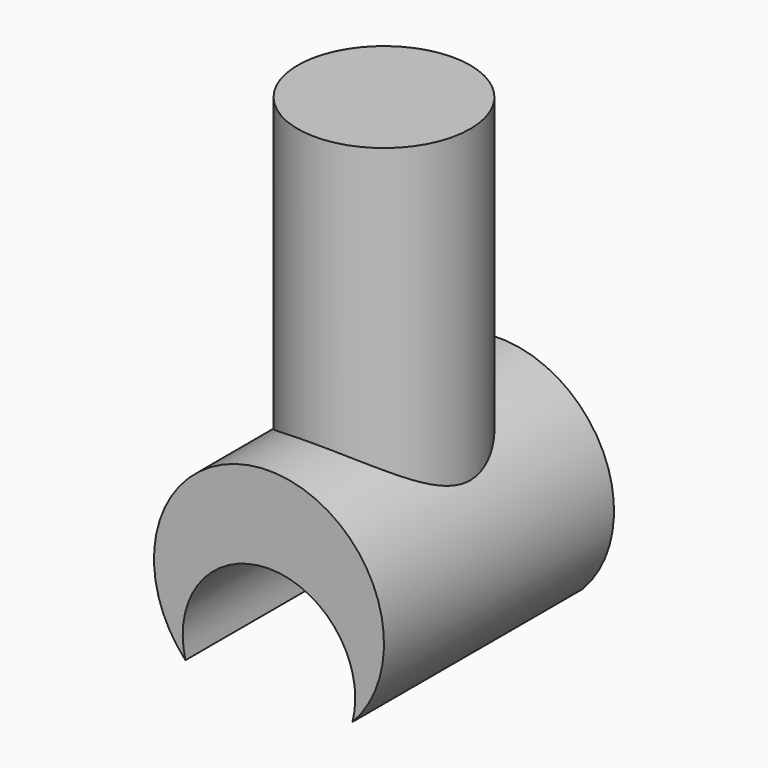
from build123d import *

# Parameters (mm, degrees)
F1_DEPTH = 2.5
F2_R     = 1.5
F3_DEPTH = 5.5


with BuildPart() as f1:
    # F0 (on Front) → F1 (new body, symmetric)
    with BuildSketch(Plane.XZ):
        with BuildLine():
            ThreePointArc((-1.452369, -2.576711), (0, -0.701711), (1.452369, -2.576711))
            ThreePointArc((1.452369, -2.576711), (0, 0.798289), (-1.452369, -2.576711))
        make_face()
    extrude(amount=F1_DEPTH, both=True)

    # F2 (on Top) → F3 (join)
    with BuildSketch(Plane.XY):
        Circle(F2_R)
    extrude(amount=F3_DEPTH)


solid = f1.part
